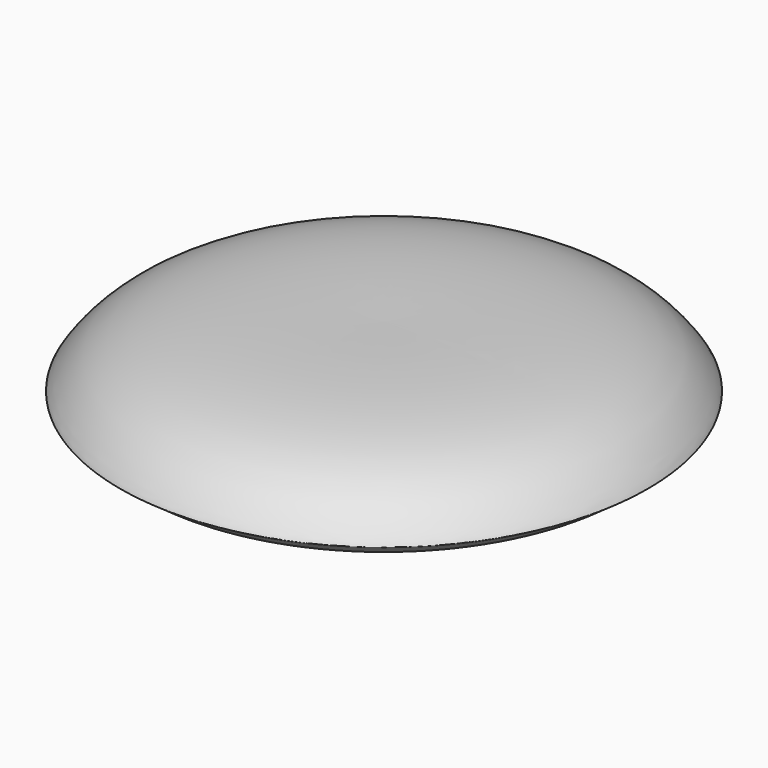
from build123d import *


with BuildPart() as f1:
    # F0 (on Front) → F1 (revolve)
    with BuildSketch(Plane.XZ):
        with BuildLine():
            add(Edge.make_bspline(
                [(0, -2.54), (8.2619122422, -2.4659424883), (19.8812354858, -2.3617900667), (22.3834822776, -7.1653644028), (22.4717861324, -7.1906245626), (24.4247089454, -5.5729570269), (24.6552144501, -5.8403800528), (20.93117552, 0.2813611354), (8.5350216672, 0.1147295041), (0, 0)],
                knots=[0, 0, 0, 0, 0.2976127499, 0.4185542815, 0.4339693291, 0.538296091, 0.5537109162, 0.6927202546, 1, 1, 1, 1], degree=3))
            Line((0, 0), (0, -2.54))
        make_face()
    revolve(axis=Axis((0, 0, -1.27), (0, 0, -1)))


solid = f1.part
